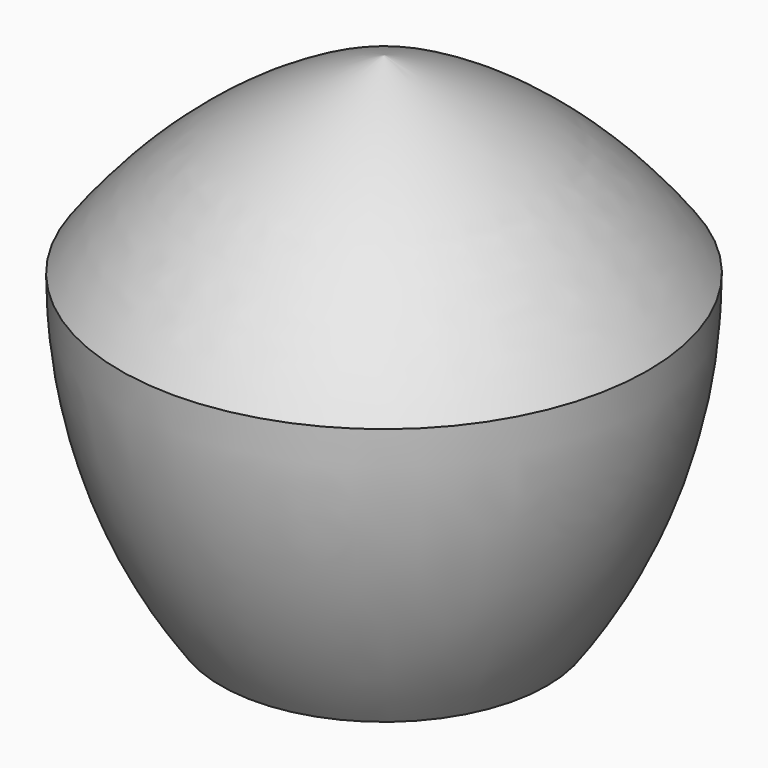
from build123d import *


with BuildPart() as f1:
    # F0 (on Front) → F1 (revolve)
    with BuildSketch(Plane.XZ):
        Polygon((0, -29.346734), (21.321651, -29.346734), (34.499155, 11.209455), (0, 36.274558), align=None)
        with BuildLine():
            Line((0, 36.274558), (34.499155, 11.209455))
            ThreePointArc((34.499155, 11.209455), (19.234539, 26.474071), (0, 36.274558))
        make_face()
        with BuildLine():
            Line((34.499155, 11.209455), (21.321651, -29.346734))
            ThreePointArc((21.321651, -29.346734), (31.122138, -10.112195), (34.499155, 11.209455))
        make_face()
        with BuildLine():
            ThreePointArc((0, -48.544835), (11.669726, -40.066282), (21.321651, -29.346734))
            ThreePointArc((21.321651, -29.346734), (10.793714, -31.874268), (0, -32.723752))
            ThreePointArc((0, -32.723752), (-10.793714, -31.874268), (-21.321651, -29.346734))
            ThreePointArc((-21.321651, -29.346734), (-11.669726, -40.066282), (0, -48.544835))
        make_face()
    revolve(axis=Axis((0, 0, 0.54384), (0, 0, -1)))


solid = f1.part
